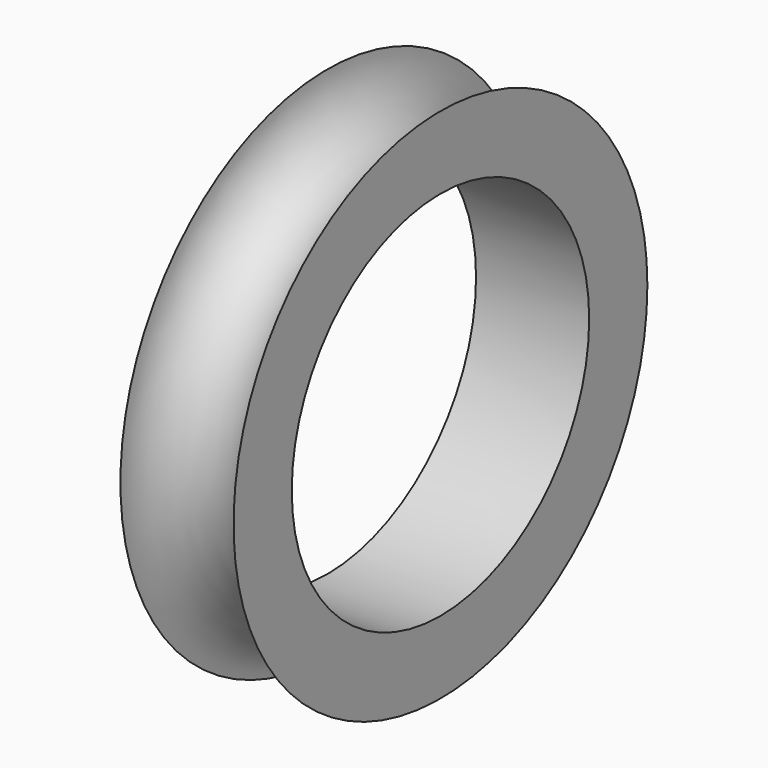
from build123d import *

# Parameters (mm, degrees)
F0_W     = 7
F0_H     = 11
F2_R     = 22
F2_R_2   = 16
F3_DEPTH = 25
F4_R     = 11.5
F5_DEPTH = 25


with BuildPart() as f1:
    # F0 (on Top) → F1 (revolve)
    with BuildSketch(Plane.XY):
        with Locations((3.5, 5.5)):
            Rectangle(F0_W, F0_H)
        with BuildLine():
            Line((0, 16), (0, 11))
            Line((0, 11), (7, 11))
            Line((7, 11), (7, 16))
            ThreePointArc((7, 16), (3.5, 12.5), (0, 16))
        make_face()
    revolve(axis=Axis((3.5, 0, 0), (1, 0, 0)))

    # F2 (on face) → F3 (cut)
    with BuildSketch(Plane(origin=(0, 0, 0), x_dir=(0, -1, 0), z_dir=(-1, 0, 0))):
        Circle(F2_R)
        Circle(F2_R_2, mode=Mode.SUBTRACT)
    extrude(amount=-F3_DEPTH, mode=Mode.SUBTRACT)

    # F4 (on face) → F5 (cut)
    with BuildSketch(Plane(origin=(0, 0, 0), x_dir=(0, -1, 0), z_dir=(-1, 0, 0))):
        Circle(F4_R)
    extrude(amount=-F5_DEPTH, mode=Mode.SUBTRACT)


solid = f1.part
